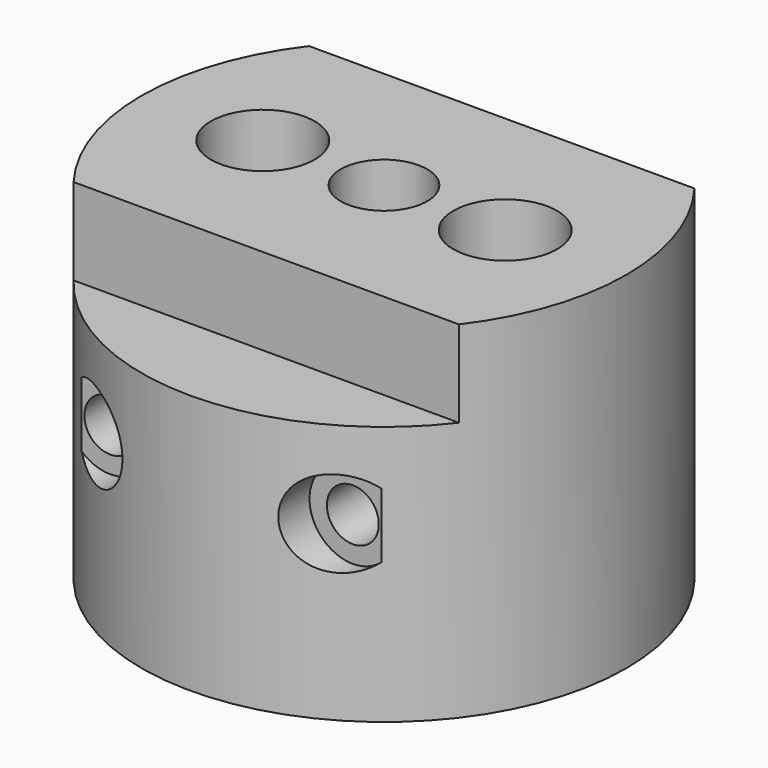
from build123d import *

# Parameters (mm, degrees)
F0_R           = 14
F0_R_2         = 3
F0_R_3         = 1
F1_DEPTH       = 20
F2_D           = 6
F5_D           = 3
F5_DEPTH       = 20
F5_CBORE_D     = 5
F5_CBORE_DEPTH = 3
F5_TIP         = 0.9012909285
F7_DEPTH       = 5
F8_D           = 5


with BuildPart() as f1:
    # F0 (on Top) → F1 (new body)
    with BuildSketch(Plane.XY):
        Circle(F0_R)
        with Locations((-7, 0)):
            Circle(F0_R_2, mode=Mode.SUBTRACT)
        Circle(F0_R_2, mode=Mode.SUBTRACT)
        with Locations((0, 5)):
            Circle(F0_R_3, mode=Mode.SUBTRACT)
        with Locations((7, 0)):
            Circle(F0_R_2, mode=Mode.SUBTRACT)
        with Locations((-7, 0)):
            Circle(F0_R_2)
        Circle(F0_R_2)
        with Locations((7, 0)):
            Circle(F0_R_2)
        with Locations((0, 5)):
            Circle(F0_R_3)
    extrude(amount=F1_DEPTH)

    # F2 (through all)
    with Locations(Plane(origin=(0, 0, 0), x_dir=(1, 0, 0), z_dir=(0, 0, -1))):
        with Locations((-7, 0), (7, 0)):
            Hole(F2_D / 2)

    # F5
    with Locations(Plane.XZ.offset(14)):
        with Locations((-7, 10), (7, 10)):
            CounterBoreHole(F5_D / 2, F5_CBORE_D / 2, F5_CBORE_DEPTH, depth=F5_DEPTH)
            with Locations((0, 0, -(F5_DEPTH + F5_TIP / 2))):  # 118° drill point
                Cone(0, F5_D / 2, F5_TIP, mode=Mode.SUBTRACT)

    # F6 (on face) → F7 (cut)
    with BuildSketch(Plane.XY.offset(20)):
        with BuildLine():
            Line((-11.1242977306, 8.5), (11.1242977306, 8.5))
            ThreePointArc((11.1242977306, 8.5), (0, 14), (-11.1242977306, 8.5))
        make_face()
        with BuildLine():
            ThreePointArc((-11.1242977306, -8.5), (0, -14), (11.1242977306, -8.5))
            Line((11.1242977306, -8.5), (-11.1242977306, -8.5))
        make_face()
    extrude(amount=-F7_DEPTH, mode=Mode.SUBTRACT)

    # F8 (through all)
    with Locations(Plane(origin=(0, 0, 0), x_dir=(1, 0, 0), z_dir=(0, 0, -1))):
        with Locations((0, 0)):
            Hole(F8_D / 2)


solid = f1.part
